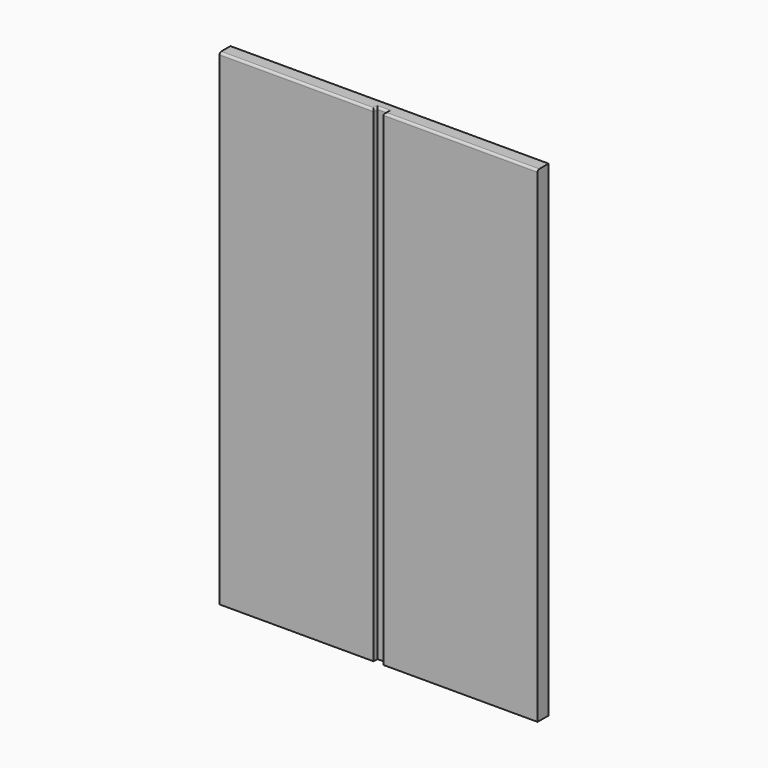
from build123d import *

# Parameters (mm, degrees)
F0_W     = 34.9
F0_H     = 1.1
F1_DEPTH = 110
F2_W     = 70
F2_H     = 1
F3_DEPTH = 1
F4_R     = 0.5


with BuildPart() as f1:
    # F0 (on Top) → F1 (new body)
    with BuildSketch(Plane.XY):
        Polygon((64.47826, 0), (-7.52174, 0), (-7.52174, -1), (27.37826, -1), (29.57826, -1), (64.47826, -1), align=None)
        with Locations((9.92826, -1.55)):
            Rectangle(F0_W, F0_H)
        with Locations((47.02826, -1.55)):
            Rectangle(F0_W, F0_H)
    extrude(amount=F1_DEPTH)

    # F2 (on face) → F3 (join)
    with BuildSketch(Plane(origin=(0, 0, 0), x_dir=(-1, 0, 0), z_dir=(0, 1, 0))):
        Polygon((7.52174, 0), (7.52174, 110), (6.52174, 110), (6.52174, 109), (6.52174, 1), (6.52174, 0), align=None)
        with Locations((-28.47826, 109.5)):
            Rectangle(F2_W, F2_H)
        Polygon((-63.47826, 109), (-63.47826, 110), (-64.47826, 110), (-64.47826, 0), (-63.47826, 0), (-63.47826, 1), align=None)
        with Locations((-28.47826, 0.5)):
            Rectangle(F2_W, F2_H)
    extrude(amount=F3_DEPTH)

    # F4
    f4_edges = [f1.edges().sort_by_distance(p)[0] for p in [
        (9.92826, -2.1, 110),
        (29.57826, -1.55, 110),
        (27.37826, -1.55, 110),
        (28.47826, -1, 110),
        (47.02826, -2.1, 110),
    ]]
    fillet(f4_edges, radius=F4_R)


solid = f1.part
